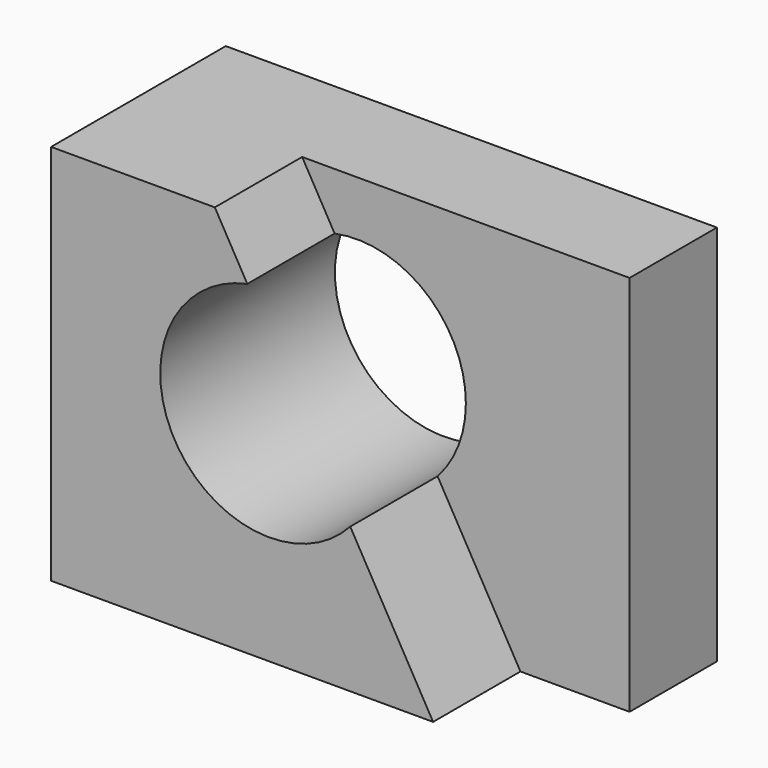
from build123d import *

# Parameters (mm, degrees)
F0_W     = 57.15
F0_H     = 44.45
F1_DEPTH = 25.4
F3_DEPTH = 12.7
F4_R     = 12.7
F5_DEPTH = 25.4


with BuildPart() as f1:
    # F0 (on Front) → F1 (new body)
    with BuildSketch(Plane.XZ):
        with Locations((28.575, 22.225)):
            Rectangle(F0_W, F0_H)
    extrude(amount=F1_DEPTH)

    # F2 (on face) → F3 (cut)
    with BuildSketch(Plane.XZ.offset(25.4)):
        Polygon((57.15, 44.45), (19.05, 44.45), (44.45, 0), (57.15, 0), align=None)
    extrude(amount=-F3_DEPTH, mode=Mode.SUBTRACT)

    # F4 (on face) → F5 (cut)
    with BuildSketch(Plane.XZ.offset(25.4)):
        with Locations((25.4, 25.4)):
            Circle(F4_R)
    extrude(amount=-F5_DEPTH, mode=Mode.SUBTRACT)


solid = f1.part
